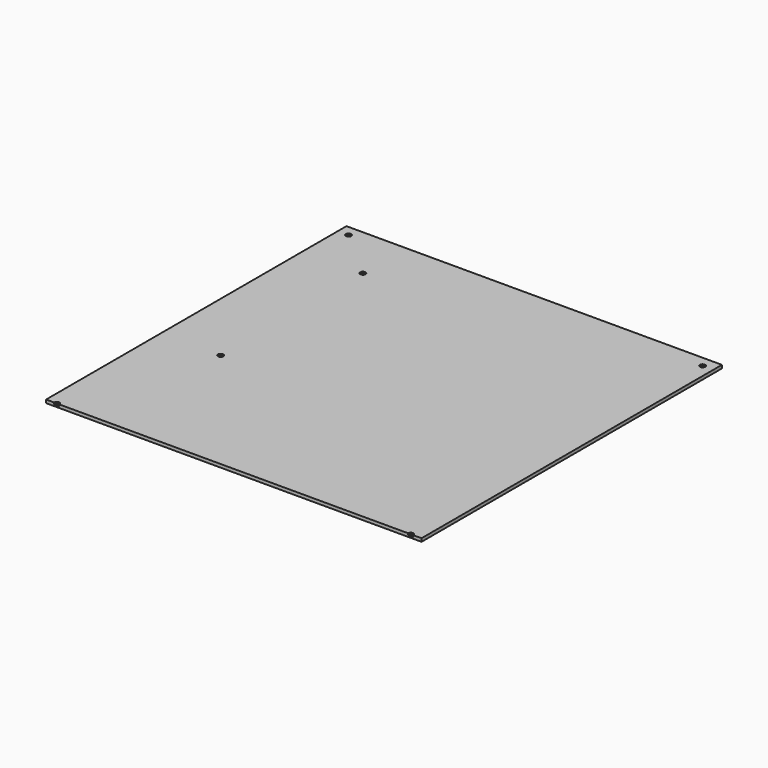
from build123d import *

# Parameters (mm, degrees)
F0_W     = 700
F0_H     = 700
F1_DEPTH = 3
F2_D     = 10
F2_DEPTH = 3.001


with BuildPart() as f1:
    # F0 (on Top) → F1 (new body, symmetric)
    with BuildSketch(Plane.XY):
        Rectangle(F0_W, F0_H)
    extrude(amount=F1_DEPTH, both=True)

    # F2 (through all, one way)
    with BuildSketch(Plane(origin=(0, 0, 0), x_dir=(1, 0, 0), z_dir=(0, 0, -1))):
        with Locations((-330, -330), (330, -330), (330, 350), (-330, 350), (-238.5, -249.04), (-238.5, 82.56)):
            Circle(F2_D / 2)
    extrude(amount=-F2_DEPTH, mode=Mode.SUBTRACT)


solid = f1.part
